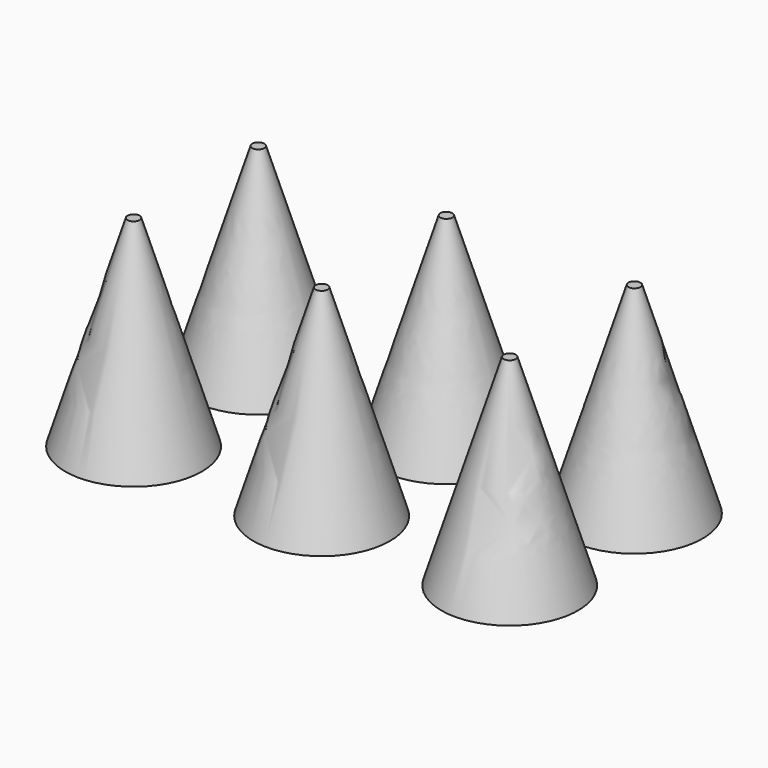
from build123d import *

# Parameters (mm, degrees)
F2_R = 17.2537802741
F5_R = 1.5246980113


with BuildPart() as f6:
    # F2 (on face) → F6 section 0
    with BuildSketch(Plane.XY):
        with Locations((0, 19.6850001812)):
            Circle(F2_R)
    # F5 (on offset) → F6 section 1
    with BuildSketch(Plane.XY.offset(50.8)):
        with Locations((0, 19.6846635257)):
            Circle(F5_R)
    loft()


with BuildPart() as f7_1:
    # F7: instance of F6
    add(f6.part.mirror(Plane.XZ))


with BuildPart() as f9_1:
    # F9: instance of F6
    add(f6.part.mirror(Plane.YZ.offset(23.749)))


with BuildPart() as f9_2:
    # F9: instance of F7_1
    add(f7_1.part.mirror(Plane.YZ.offset(23.749)))


with BuildPart() as f10_1:
    # F10: instance of F9_1
    add(f9_1.part.mirror(Plane.YZ))


with BuildPart() as f10_2:
    # F10: instance of F9_2
    add(f9_2.part.mirror(Plane.YZ))


solid = Compound([f6.part, f7_1.part, f9_1.part, f9_2.part, f10_1.part, f10_2.part])
